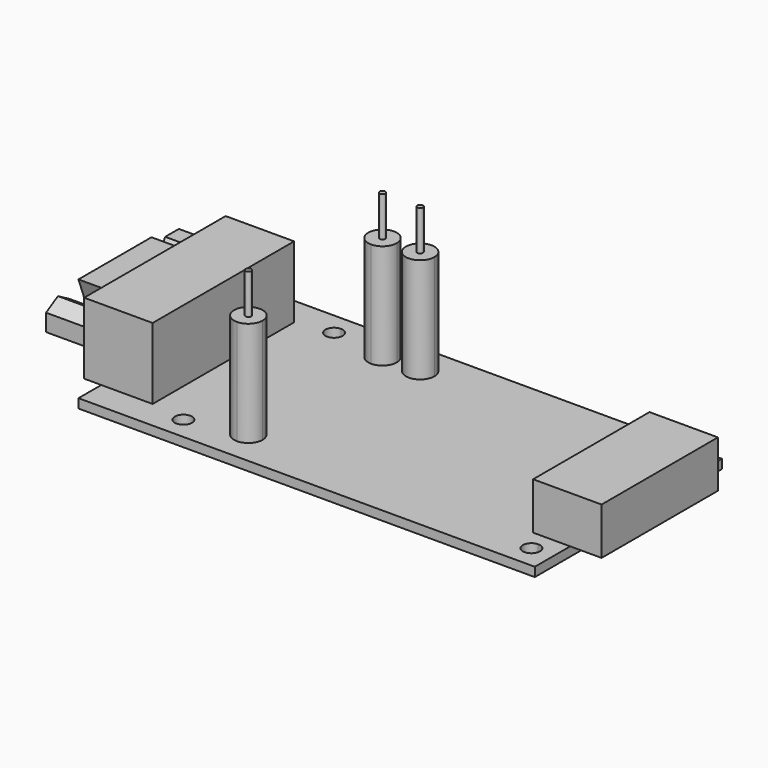
from build123d import *

# Parameters (mm, degrees)
F0_W      = 80
F0_H      = 41
F1_DEPTH  = 1.6
F3_DEPTH  = 8.24
F5_DEPTH  = 12.5
F7_DEPTH  = 7
F9_DEPTH  = 2
F11_DEPTH = 18.4
F12_R     = 0.5
F13_DEPTH = 7
F14_R     = 0.5
F15_DEPTH = 7
F16_R     = 0.5
F17_DEPTH = 7


with BuildPart() as f1:
    # F0 (on Top) → F1 (new body)
    with BuildSketch(Plane.XY):
        Rectangle(F0_W, F0_H)
    extrude(amount=F1_DEPTH)

    # F2 (on face) → F3 (join)
    with BuildSketch(Plane.XY.offset(1.6)):
        Polygon((40, -12.75), (40, 0), (40, 12.75), (33.5, 12.75), (33.5, -12.75), align=None)
        Polygon((40, 12.75), (40, 0), (40, -12.75), (45.5, -12.75), (45.5, 12.75), align=None)
    extrude(amount=F3_DEPTH)

    # F4 (on face) → F5 (join)
    with BuildSketch(Plane.XY.offset(1.6)):
        Polygon((-40, -15.5), (-40, 0), (-40, 15.5), (-43, 15.5), (-43, -15.5), align=None)
        Polygon((-40, 15.5), (-40, 0), (-40, -15.5), (-31, -15.5), (-31, 15.5), align=None)
    extrude(amount=F5_DEPTH)

    # F6 (on face) → F7 (join)
    with BuildSketch(Plane(origin=(-43, 0, 0), x_dir=(0, -1, 0), z_dir=(-1, 0, 0))):
        Polygon((0, 11.6), (0, 3.6), (5, 3.6), (8, 11.6), align=None)
        Polygon((-5, 3.6), (0, 3.6), (0, 11.6), (-8, 11.6), align=None)
        Polygon((-14, 10.448076), (-15.5, 7.85), (-14, 5.251924), (-11, 5.251924), (-9.5, 7.85), (-11, 10.448076), align=None)
        Polygon((15.098076, 9.35), (12.5, 10.85), (9.901924, 9.35), (9.901924, 6.35), (12.5, 4.85), (15.098076, 6.35), (15.098076, 7.85), align=None)
    extrude(amount=F7_DEPTH)

    # F8 (on face) → F9 (cut)
    with BuildSketch(Plane.XY.offset(1.6)):
        with BuildLine():
            ThreePointArc((37.7, 16.5), (37.26066, 17.56066), (36.2, 18))
            Line((36.2, 18), (36.2, 16.5))
            Line((36.2, 16.5), (36.2, 15))
            ThreePointArc((36.2, 15), (37.26066, 15.43934), (37.7, 16.5))
        make_face()
        with BuildLine():
            ThreePointArc((-23.3, -16.5), (-25.86066, -15.43934), (-24.8, -18))
            ThreePointArc((-24.8, -18), (-23.73934, -17.56066), (-23.3, -16.5))
        make_face()
        with BuildLine():
            ThreePointArc((37.7, -16.5), (37.26066, -15.43934), (36.2, -15))
            Line((36.2, -15), (36.2, -16.5))
            Line((36.2, -16.5), (36.2, -18))
            ThreePointArc((36.2, -18), (37.26066, -17.56066), (37.7, -16.5))
        make_face()
        with BuildLine():
            Line((36.2, -16.5), (36.2, -15))
            ThreePointArc((36.2, -15), (34.7, -16.5), (36.2, -18))
            Line((36.2, -18), (36.2, -16.5))
        make_face()
        with BuildLine():
            Line((36.2, 16.5), (36.2, 18))
            ThreePointArc((36.2, 18), (34.7, 16.5), (36.2, 15))
            Line((36.2, 15), (36.2, 16.5))
        make_face()
        with BuildLine():
            ThreePointArc((-24.8, 18), (-25.86066, 15.43934), (-23.3, 16.5))
            ThreePointArc((-23.3, 16.5), (-23.73934, 17.56066), (-24.8, 18))
        make_face()
    extrude(amount=-F9_DEPTH, mode=Mode.SUBTRACT)

    # F10 (on face) → F11 (join)
    with BuildSketch(Plane.XY.offset(1.6)):
        with BuildLine():
            ThreePointArc((-6, 15), (-6.732233, 16.767767), (-8.5, 17.5))
            Line((-8.5, 17.5), (-8.5, 15))
            Line((-8.5, 15), (-11, 15))
            ThreePointArc((-11, 15), (-8.5, 12.5), (-6, 15))
        make_face()
        with BuildLine():
            ThreePointArc((-12.6, -14.4), (-13.332233, -12.632233), (-15.1, -11.9))
            Line((-15.1, -11.9), (-15.1, -14.4))
            Line((-15.1, -14.4), (-15.1, -16.9))
            ThreePointArc((-15.1, -16.9), (-13.332233, -16.167767), (-12.6, -14.4))
        make_face()
        with BuildLine():
            Line((-15.1, -14.4), (-15.1, -11.9))
            ThreePointArc((-15.1, -11.9), (-17.6, -14.4), (-15.1, -16.9))
            Line((-15.1, -16.9), (-15.1, -14.4))
        make_face()
        with BuildLine():
            ThreePointArc((-15.1, 12.5), (-13.332233, 13.232233), (-12.6, 15))
            Line((-12.6, 15), (-15.1, 15))
            Line((-15.1, 15), (-15.1, 12.5))
        make_face()
        with BuildLine():
            Line((-15.1, 15), (-12.6, 15))
            ThreePointArc((-12.6, 15), (-16.867767, 16.767767), (-15.1, 12.5))
            Line((-15.1, 12.5), (-15.1, 15))
        make_face()
        with BuildLine():
            Line((-8.5, 15), (-8.5, 17.5))
            ThreePointArc((-8.5, 17.5), (-10.267767, 16.767767), (-11, 15))
            Line((-11, 15), (-8.5, 15))
        make_face()
    extrude(amount=F11_DEPTH)

    # F12 (on face) → F13 (join)
    with BuildSketch(Plane.XY.offset(20)):
        with Locations((-15.1, 15)):
            Circle(F12_R)
    extrude(amount=F13_DEPTH)

    # F14 (on face) → F15 (join)
    with BuildSketch(Plane.XY.offset(20)):
        with Locations((-8.5, 15)):
            Circle(F14_R)
    extrude(amount=F15_DEPTH)

    # F16 (on face) → F17 (join)
    with BuildSketch(Plane.XY.offset(20)):
        with Locations((-15.1, -14.4)):
            Circle(F16_R)
    extrude(amount=F17_DEPTH)


solid = f1.part
